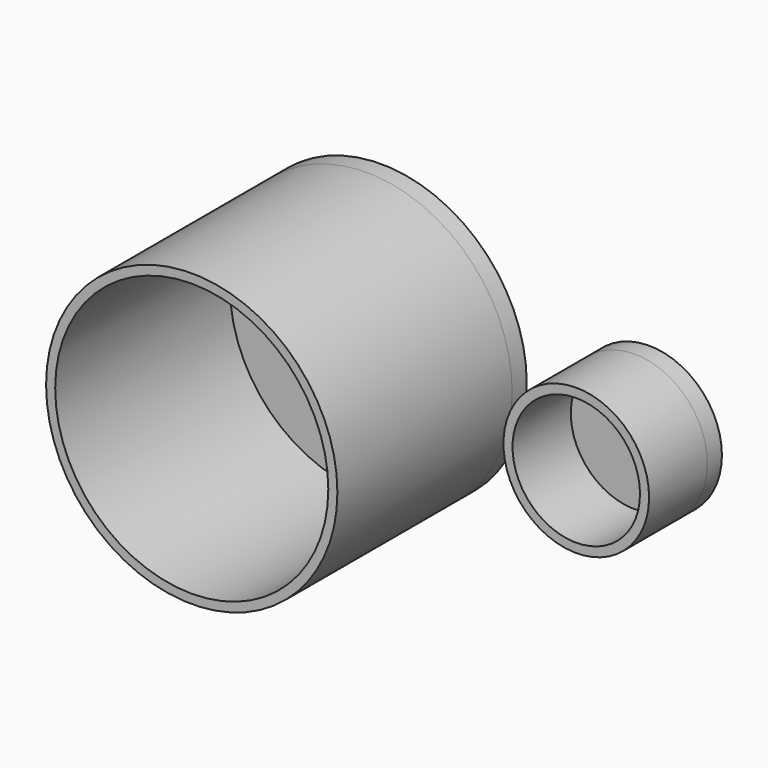
from build123d import *

# Parameters (mm, degrees)
F0_R     = 50.8
F0_R_2   = 47.625
F1_DEPTH = 6.35
F0_R_3   = 25.4
F0_R_4   = 22.225
F2_DEPTH = 76.2
F3_DEPTH = 25.4


with BuildPart() as f1:
    # F0 (on Front) → F1 (new body)
    with BuildSketch(Plane.XZ):
        with Locations((-48.3009703457, 0)):
            Circle(F0_R)
        with Locations((-48.3009703457, 0)):
            Circle(F0_R_2, mode=Mode.SUBTRACT)
        with Locations((-48.3009703457, 0)):
            Circle(F0_R_2)
    extrude(amount=-F1_DEPTH)


with BuildPart() as f1b:
    # F0 (on Front) → F1, piece 2 (new body)
    with BuildSketch(Plane.XZ):
        with Locations((45.1669357717, 0)):
            Circle(F0_R_3)
        with Locations((45.1669357717, 0)):
            Circle(F0_R_4, mode=Mode.SUBTRACT)
        with Locations((45.1669357717, 0)):
            Circle(F0_R_4)
    extrude(amount=-F1_DEPTH)


with BuildPart() as f2:
    # F0 (on Front) → F2 (new body)
    with BuildSketch(Plane.XZ):
        with Locations((-48.3009703457, 0)):
            Circle(F0_R)
        with Locations((-48.3009703457, 0)):
            Circle(F0_R_2, mode=Mode.SUBTRACT)
    extrude(amount=F2_DEPTH)


with BuildPart() as f3:
    # F0 (on Front) → F3 (new body)
    with BuildSketch(Plane.XZ):
        with Locations((45.1669357717, 0)):
            Circle(F0_R_3)
        with Locations((45.1669357717, 0)):
            Circle(F0_R_4, mode=Mode.SUBTRACT)
    extrude(amount=F3_DEPTH)


solid = Compound([f1.part, f1b.part, f2.part, f3.part])
